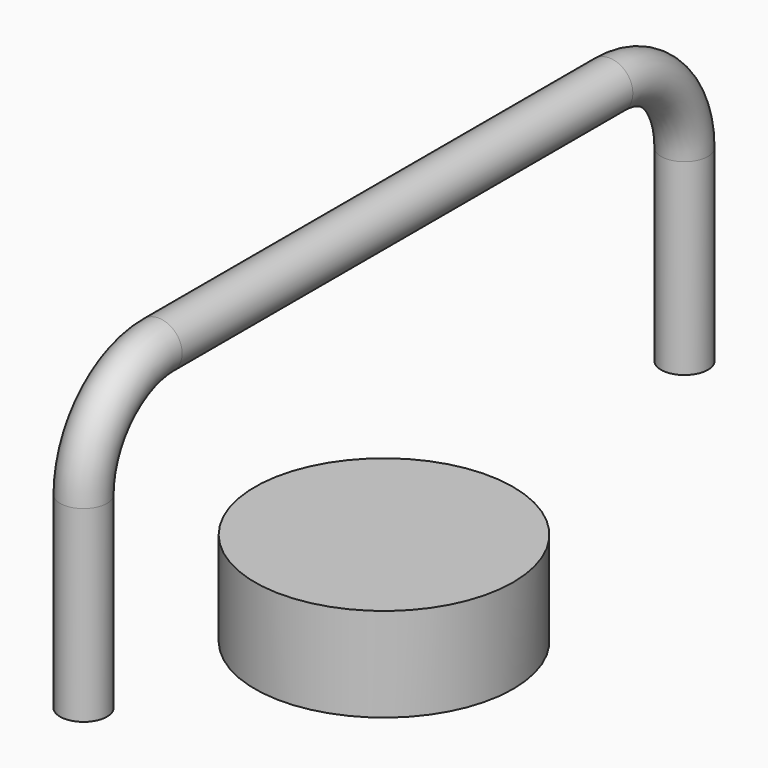
from build123d import *

# Parameters (mm, degrees)
F0_R     = 3.175
F3_R     = 17.47045
F4_DEPTH = 12.7


with BuildPart() as f2:
    # F2: sweep along a path in F1
    with BuildLine(Plane.YZ) as f2_path:
        Line((-50.8, 0), (-50.8, 25.4))
        ThreePointArc((-50.8, 25.4), (-47.080256, 34.380256), (-38.1, 38.1))
        Line((-38.1, 38.1), (38.1, 38.1))
        ThreePointArc((38.1, 38.1), (47.080256, 34.380256), (50.8, 25.4))
        Line((50.8, 25.4), (50.8, 0))
    # F0 (on Top) → F2 (sweep)
    with BuildSketch(Plane.XY):
        with Locations((0, -50.8)):
            Circle(F0_R)
    sweep(path=f2_path.line)


with BuildPart() as f4:
    # F3 (on Top) → F4 (new body)
    with BuildSketch(Plane.XY):
        Circle(F3_R)
    extrude(amount=-F4_DEPTH)


solid = Compound([f2.part, f4.part])
